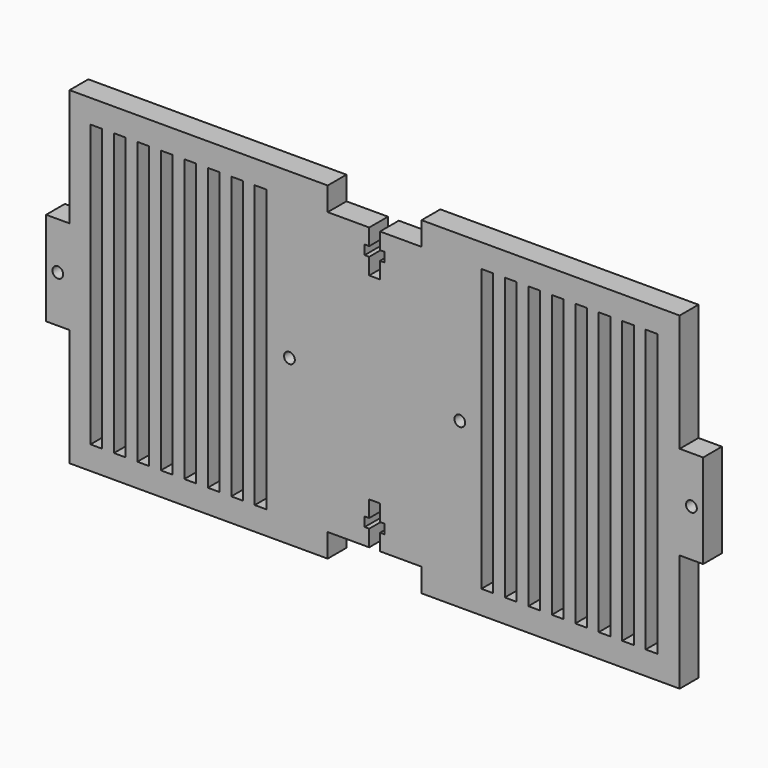
from build123d import *

# Parameters (mm, degrees)
F0_W     = 3.175
F0_H     = 76.2
F0_R     = 1.4605
F1_DEPTH = 6.35


with BuildPart() as f1:
    # F0 (on Front) → F1 (new body)
    with BuildSketch(Plane.XZ):
        Polygon((82.55, 12.7), (82.55, 44.45), (12.7, 44.45), (12.7, 38.1), (1.4605, 38.1), (1.4605, 33.655), (2.69367, 33.655), (2.69367, 31.115), (1.4605, 31.115), (1.4605, 26.67), (-1.4605, 26.67), (-1.4605, 31.115), (-2.69367, 31.115), (-2.69367, 33.655), (-1.4605, 33.655), (-1.4605, 38.1), (-12.7, 38.1), (-12.7, 44.45), (-82.55, 44.45), (-82.55, 12.7), (-88.9, 12.7), (-88.9, -12.7), (-82.55, -12.7), (-82.55, -44.45), (-12.7, -44.45), (-12.7, -38.1), (-1.4605, -38.1), (-1.4605, -33.655), (-2.69367, -33.655), (-2.69367, -31.115), (-1.4605, -31.115), (-1.4605, -26.67), (1.4605, -26.67), (1.4605, -31.115), (2.69367, -31.115), (2.69367, -33.655), (1.4605, -33.655), (1.4605, -38.1), (12.7, -38.1), (12.7, -44.45), (82.55, -44.45), (82.55, -12.7), (88.9, -12.7), (88.9, 12.7), align=None)
        with Locations((-75.301861, 0)):
            Rectangle(F0_W, F0_H, mode=Mode.SUBTRACT)
        with Locations((-68.951861, 0)):
            Rectangle(F0_W, F0_H, mode=Mode.SUBTRACT)
        with Locations((-62.601861, 0)):
            Rectangle(F0_W, F0_H, mode=Mode.SUBTRACT)
        with Locations((-56.251861, 0)):
            Rectangle(F0_W, F0_H, mode=Mode.SUBTRACT)
        with Locations((-49.901861, 0)):
            Rectangle(F0_W, F0_H, mode=Mode.SUBTRACT)
        with Locations((-43.551861, 0)):
            Rectangle(F0_W, F0_H, mode=Mode.SUBTRACT)
        with Locations((-37.201861, 0)):
            Rectangle(F0_W, F0_H, mode=Mode.SUBTRACT)
        with Locations((-30.851861, 0)):
            Rectangle(F0_W, F0_H, mode=Mode.SUBTRACT)
        with Locations((-85.725, 0)):
            Circle(F0_R, mode=Mode.SUBTRACT)
        with Locations((-23.0505, 0)):
            Circle(F0_R, mode=Mode.SUBTRACT)
        with Locations((23.0505, 0)):
            Circle(F0_R, mode=Mode.SUBTRACT)
        with Locations((30.486395, 0)):
            Rectangle(F0_W, F0_H, mode=Mode.SUBTRACT)
        with Locations((36.836395, 0)):
            Rectangle(F0_W, F0_H, mode=Mode.SUBTRACT)
        with Locations((43.186395, 0)):
            Rectangle(F0_W, F0_H, mode=Mode.SUBTRACT)
        with Locations((49.536395, 0)):
            Rectangle(F0_W, F0_H, mode=Mode.SUBTRACT)
        with Locations((55.886395, 0)):
            Rectangle(F0_W, F0_H, mode=Mode.SUBTRACT)
        with Locations((62.236395, 0)):
            Rectangle(F0_W, F0_H, mode=Mode.SUBTRACT)
        with Locations((68.586395, 0)):
            Rectangle(F0_W, F0_H, mode=Mode.SUBTRACT)
        with Locations((74.936395, 0)):
            Rectangle(F0_W, F0_H, mode=Mode.SUBTRACT)
        with Locations((85.725, 0)):
            Circle(F0_R, mode=Mode.SUBTRACT)
    extrude(amount=F1_DEPTH)


solid = f1.part
